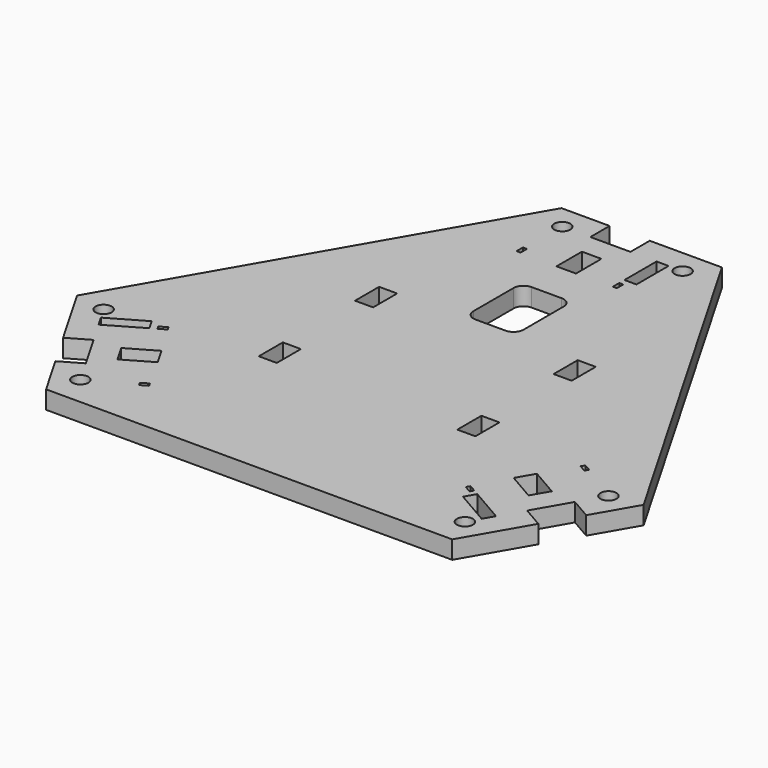
from build123d import *

# Parameters (mm, degrees)
F0_R     = 4
F0_W     = 9
F0_H     = 15
F0_W_2   = 2
F0_H_2   = 4
F0_W_3   = 9.720032
F0_H_3   = 15.864611
F0_W_4   = 6
F0_H_4   = 20
F1_DEPTH = 9


with BuildPart() as f1:
    # F0 (on Top) → F1 (new body)
    with BuildSketch(Plane.XY):
        Polygon((-16, 140), (-40, 140), (-141.243557, -35.358984), (-123.243557, -66.535898), (-112.851252, -60.535898), (-102.851252, -77.856406), (-113.243557, -83.856406), (-101.243557, -104.641016), (101.243557, -104.641016), (119.243557, -73.464102), (108.851252, -67.464102), (118.851252, -50.143594), (129.243557, -56.143594), (141.243557, -35.358984), (40, 140), (4, 140), (4, 128), (-16, 128), align=None)
        with Locations((-95.851252, -89.980762)):
            Circle(F0_R, mode=Mode.SUBTRACT)
        Polygon((-76.242984, -77.505223), (-72.778882, -75.505223), (-71.778882, -77.237274), (-75.242984, -79.237274), align=None, mode=Mode.SUBTRACT)
        Polygon((-100.173051, -59.151278), (-86.433895, -51.218972), (-81.573879, -59.636768), (-95.313035, -67.569073), align=None, mode=Mode.SUBTRACT)
        with Locations((-125.851252, -38.019238)):
            Circle(F0_R, mode=Mode.SUBTRACT)
        Polygon((-119.351252, -49.277568), (-122.351252, -44.081416), (-105.030744, -34.081416), (-102.030744, -39.277568), align=None, mode=Mode.SUBTRACT)
        Polygon((-99.242984, -37.668054), (-100.242984, -35.936003), (-96.778882, -33.936003), (-95.778882, -35.668054), align=None, mode=Mode.SUBTRACT)
        with Locations((-49.5, -23.646934)):
            Rectangle(F0_W, F0_H, mode=Mode.SUBTRACT)
        with Locations((95.851252, -89.980762)):
            Circle(F0_R, mode=Mode.SUBTRACT)
        Polygon((102.351252, -78.722432), (99.351252, -83.918584), (82.030744, -73.918584), (85.030744, -68.722432), align=None, mode=Mode.SUBTRACT)
        Polygon((82.242984, -67.112918), (81.242984, -68.844969), (77.778882, -66.844969), (78.778882, -65.112918), align=None, mode=Mode.SUBTRACT)
        Polygon((101.313035, -57.176768), (87.573879, -49.244463), (92.433895, -40.826667), (106.173051, -48.758973), align=None, mode=Mode.SUBTRACT)
        with Locations((49.5, -23.646934)):
            Rectangle(F0_W, F0_H, mode=Mode.SUBTRACT)
        Polygon((105.242984, -27.275749), (101.778882, -25.275749), (102.778882, -23.543698), (106.242984, -25.543698), align=None, mode=Mode.SUBTRACT)
        with Locations((125.851252, -38.019238)):
            Circle(F0_R, mode=Mode.SUBTRACT)
        with Locations((-49.5, 36.353066)):
            Rectangle(F0_W, F0_H, mode=Mode.SUBTRACT)
        with Locations((-30, 102.780972)):
            Rectangle(F0_W_2, F0_H_2, mode=Mode.SUBTRACT)
        with Locations((-6, 108.39574)):
            Rectangle(F0_W_3, F0_H_3, mode=Mode.SUBTRACT)
        with Locations((-30, 128)):
            Circle(F0_R, mode=Mode.SUBTRACT)
        with Locations((49.5, 36.353066)):
            Rectangle(F0_W, F0_H, mode=Mode.SUBTRACT)
        with BuildLine():
            Line((-7.5, 80.75011), (7.5, 80.75011))
            ThreePointArc((7.5, 80.75011), (11.035534, 79.285643), (12.5, 75.75011))
            Line((12.5, 75.75011), (12.5, 50.75011))
            ThreePointArc((12.5, 50.75011), (11.035534, 47.214576), (7.5, 45.75011))
            Line((7.5, 45.75011), (-7.5, 45.75011))
            ThreePointArc((-7.5, 45.75011), (-11.035534, 47.214576), (-12.5, 50.75011))
            Line((-12.5, 50.75011), (-12.5, 75.75011))
            ThreePointArc((-12.5, 75.75011), (-11.035534, 79.285643), (-7.5, 80.75011))
        make_face(mode=Mode.SUBTRACT)
        with Locations((18, 102.780972)):
            Rectangle(F0_W_2, F0_H_2, mode=Mode.SUBTRACT)
        with Locations((20, 118)):
            Rectangle(F0_W_4, F0_H_4, mode=Mode.SUBTRACT)
        with Locations((30, 128)):
            Circle(F0_R, mode=Mode.SUBTRACT)
    extrude(amount=F1_DEPTH)


solid = f1.part
